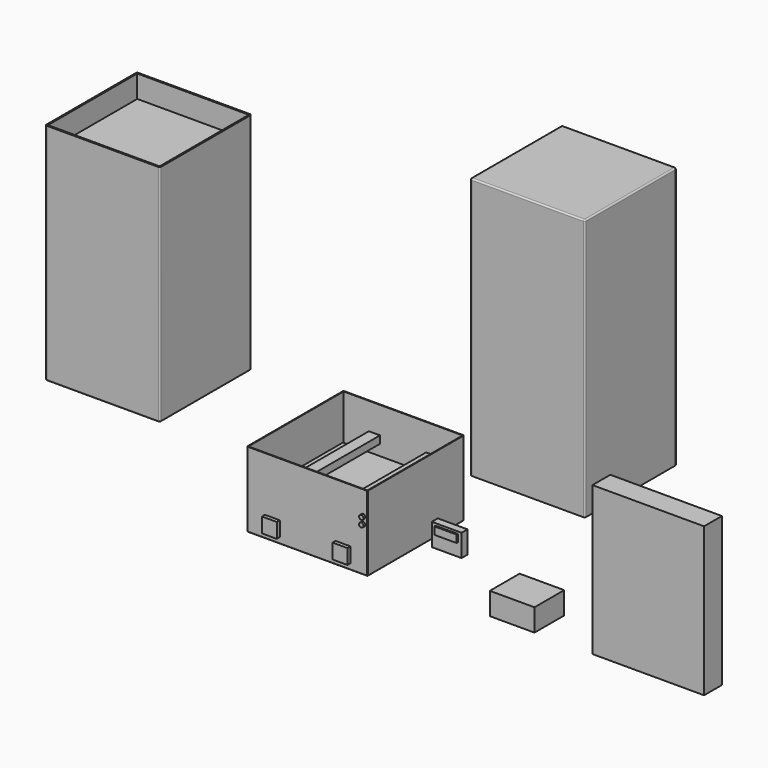
from build123d import *

# Parameters (mm, degrees)
BOX001_W                     = 160
BOX001_H                     = 160
BOX001_DEPTH                 = 100
THICKNESS001_T               = 1
BOX006_W                     = 40
BOX006_H                     = 30
BOX006_DEPTH                 = 10
BOX007_W                     = 30
BOX007_H                     = 10
BOX007_DEPTH                 = 8
CYLINDER_R                   = 3
CYLINDER_DEPTH               = 6
CYLINDER001_R                = 3
CYLINDER001_DEPTH            = 6
BOX009_W                     = 159
BOX009_H                     = 159
BOX009_DEPTH                 = 6
BOX002_W                     = 20
BOX002_H                     = 20
BOX002_DEPTH                 = 5
BOX010_W                     = 20
BOX010_H                     = 20
BOX010_DEPTH                 = 5
BOX011_W                     = 20
BOX011_H                     = 20
BOX011_DEPTH                 = 5
BOX012_W                     = 20
BOX012_H                     = 20
BOX012_DEPTH                 = 5
BOX013_W                     = 20
BOX013_H                     = 20
BOX013_DEPTH                 = 5
BOX014_W                     = 20
BOX014_H                     = 20
BOX014_DEPTH                 = 5
FUSION003_PLACEMENT_ANGLE    = 180
BOX015_W                     = 20
BOX015_H                     = 20
BOX015_DEPTH                 = 5
BOX016_W                     = 20
BOX016_H                     = 20
BOX016_DEPTH                 = 5
FUSION004_PLACEMENT_ANGLE    = 180
BOX017_W                     = 15
BOX017_H                     = 160
BOX017_DEPTH                 = 10
BOX018_W                     = 15
BOX018_H                     = 160
BOX018_DEPTH                 = 10
BOX019_W                     = 60
BOX019_H                     = 50
BOX019_DEPTH                 = 30
BOX020_W                     = 150
BOX020_H                     = 30
BOX020_DEPTH                 = 200
BOX021_W                     = 150
BOX021_H                     = 150
BOX021_DEPTH                 = 350
THICKNESS002_T               = 2
THICKNESS002_PLACEMENT_ANGLE = 180
BOX008_W                     = 150
BOX008_H                     = 150
BOX008_DEPTH                 = 10
BOX_W                        = 150
BOX_H                        = 150
BOX_DEPTH                    = 300
THICKNESS_T                  = 2


with BuildPart() as heat_try:
    # Box001 → Box001 (new body)
    with BuildSketch(Plane(origin=(187, -7, 0), x_dir=(1, 0, 0), z_dir=(0, 0, 1))):
        with Locations((80, 80)):
            Rectangle(BOX001_W, BOX001_H)
    extrude(amount=BOX001_DEPTH)

    # Thickness001
    thickness001_openings = [heat_try.faces().sort_by_distance(p)[0] for p in [
        (267, 73, 100),
    ]]
    offset(amount=THICKNESS001_T, openings=thickness001_openings)


with BuildPart() as obj1:
    # Box006 → Box006 (new body)
    with BuildSketch(Plane(origin=(244, 0, 31), x_dir=(1, 0, 0), z_dir=(0, -1, 0))):
        with Locations((20, 15)):
            Rectangle(BOX006_W, BOX006_H)
    extrude(amount=BOX006_DEPTH)


with BuildPart() as charge_controller:
    # Box007 → Box007 (new body)
    with BuildSketch(Plane(origin=(249, -4, 48), x_dir=(1, 0, 0), z_dir=(0, -1, 0))):
        with Locations((15, 5)):
            Rectangle(BOX007_W, BOX007_H)
    extrude(amount=BOX007_DEPTH)

    # Fusion: union obj1
    add(obj1.part)


with BuildPart() as charge_controller_1:
    # Fusion placement: moved
    add(charge_controller.part.moved(Location((192, 0, 32))))


with BuildPart() as cylinder:
    # Cylinder → Cylinder (new body)
    with BuildSketch(Plane(origin=(342, -5, 68), x_dir=(1, 0, 0), z_dir=(0, -1, 0))):
        Circle(CYLINDER_R)
    extrude(amount=CYLINDER_DEPTH)


with BuildPart() as cylinder001:
    # Cylinder001 → Cylinder001 (new body)
    with BuildSketch(Plane(origin=(342, -5, 59), x_dir=(1, 0, 0), z_dir=(0, -1, 0))):
        Circle(CYLINDER001_R)
    extrude(amount=CYLINDER001_DEPTH)


with BuildPart() as water_or_air_heat_gap:
    # Box009 → Box009 (new body)
    with BuildSketch(Plane(origin=(187, -7, 34), x_dir=(1, 0, 0), z_dir=(0, 0, 1))):
        with Locations((79.5, 79.5)):
            Rectangle(BOX009_W, BOX009_H)
    extrude(amount=BOX009_DEPTH)


with BuildPart() as obj2:
    # Box002 → Box002 (new body)
    with BuildSketch(Plane(origin=(210, -19, 7), x_dir=(1, 0, 0), z_dir=(0, -1, 0))):
        with Locations((10, 10)):
            Rectangle(BOX002_W, BOX002_H)
    extrude(amount=BOX002_DEPTH)


with BuildPart() as obj3:
    # Box010 → Box010 (new body)
    with BuildSketch(Plane(origin=(210, -14, 7), x_dir=(1, 0, 0), z_dir=(0, -1, 0))):
        with Locations((10, 10)):
            Rectangle(BOX010_W, BOX010_H)
    extrude(amount=BOX010_DEPTH)

    # Fusion001: union obj2
    add(obj2.part)


with BuildPart() as obj3_1:
    # Fusion001 placement: moved
    add(obj3.part.moved(Location((0, 11, 0))))


with BuildPart() as obj4:
    # Box011 → Box011 (new body)
    with BuildSketch(Plane(origin=(210, -19, 7), x_dir=(1, 0, 0), z_dir=(0, -1, 0))):
        with Locations((10, 10)):
            Rectangle(BOX011_W, BOX011_H)
    extrude(amount=BOX011_DEPTH)


with BuildPart() as obj5:
    # Box012 → Box012 (new body)
    with BuildSketch(Plane(origin=(210, -14, 7), x_dir=(1, 0, 0), z_dir=(0, -1, 0))):
        with Locations((10, 10)):
            Rectangle(BOX012_W, BOX012_H)
    extrude(amount=BOX012_DEPTH)

    # Fusion002: union obj4
    add(obj4.part)


with BuildPart() as obj5_1:
    # Fusion002 placement: moved
    add(obj5.part.moved(Location((95, 11, 0))))


with BuildPart() as obj6:
    # Box013 → Box013 (new body)
    with BuildSketch(Plane(origin=(210, -19, 7), x_dir=(1, 0, 0), z_dir=(0, -1, 0))):
        with Locations((10, 10)):
            Rectangle(BOX013_W, BOX013_H)
    extrude(amount=BOX013_DEPTH)


with BuildPart() as obj7:
    # Box014 → Box014 (new body)
    with BuildSketch(Plane(origin=(210, -14, 7), x_dir=(1, 0, 0), z_dir=(0, -1, 0))):
        with Locations((10, 10)):
            Rectangle(BOX014_W, BOX014_H)
    extrude(amount=BOX014_DEPTH)

    # Fusion003: union obj6
    add(obj6.part)


with BuildPart() as obj7_1:
    # Fusion003 placement: moved
    add(obj7.part.moved(Location((441, 134, 0))).rotate(Axis((441, 134, 0), (0, 0, 1)), FUSION003_PLACEMENT_ANGLE))


with BuildPart() as obj8:
    # Box015 → Box015 (new body)
    with BuildSketch(Plane(origin=(210, -19, 7), x_dir=(1, 0, 0), z_dir=(0, -1, 0))):
        with Locations((10, 10)):
            Rectangle(BOX015_W, BOX015_H)
    extrude(amount=BOX015_DEPTH)


with BuildPart() as obj9:
    # Box016 → Box016 (new body)
    with BuildSketch(Plane(origin=(210, -14, 7), x_dir=(1, 0, 0), z_dir=(0, -1, 0))):
        with Locations((10, 10)):
            Rectangle(BOX016_W, BOX016_H)
    extrude(amount=BOX016_DEPTH)

    # Fusion004: union obj8
    add(obj8.part)


with BuildPart() as obj9_1:
    # Fusion004 placement: moved
    add(obj9.part.moved(Location((535, 134, 0))).rotate(Axis((535, 134, 0), (0, 0, 1)), FUSION004_PLACEMENT_ANGLE))


with BuildPart() as shelf:
    # Box017 → Box017 (new body)
    with BuildSketch(Plane(origin=(221, -7, 54), x_dir=(1, 0, 0), z_dir=(0, 0, 1))):
        with Locations((7.5, 80)):
            Rectangle(BOX017_W, BOX017_H)
    extrude(amount=BOX017_DEPTH)


with BuildPart() as shelf001:
    # Box018 → Box018 (new body)
    with BuildSketch(Plane(origin=(298, -7, 54), x_dir=(1, 0, 0), z_dir=(0, 0, 1))):
        with Locations((7.5, 80)):
            Rectangle(BOX018_W, BOX018_H)
    extrude(amount=BOX018_DEPTH)


with BuildPart() as power_cell:
    # Box019 → Box019 (new body)
    with BuildSketch(Plane(origin=(506, 0, 0), x_dir=(1, 0, 0), z_dir=(0, 0, 1))):
        with Locations((30, 25)):
            Rectangle(BOX019_W, BOX019_H)
    extrude(amount=BOX019_DEPTH)


with BuildPart() as solar_panel:
    # Box020 → Box020 (new body)
    with BuildSketch(Plane(origin=(644, 0, 0), x_dir=(1, 0, 0), z_dir=(0, 0, 1))):
        with Locations((75, 15)):
            Rectangle(BOX020_W, BOX020_H)
    extrude(amount=BOX020_DEPTH)


with BuildPart() as cover:
    # Box021 → Box021 (new body)
    with BuildSketch(Plane.XY):
        with Locations((75, 75)):
            Rectangle(BOX021_W, BOX021_H)
    extrude(amount=BOX021_DEPTH)

    # Thickness002
    thickness002_openings = [cover.faces().sort_by_distance(p)[0] for p in [
        (75, 75, 350),
    ]]
    offset(amount=THICKNESS002_T, openings=thickness002_openings)


with BuildPart() as cover_1:
    # Thickness002 placement: moved
    add(cover.part.moved(Location((543, 113, 434))).rotate(Axis((543, 113, 434), (0, 1, 0)), THICKNESS002_PLACEMENT_ANGLE))


with BuildPart() as dirt:
    # Box008 → Box008 (new body)
    with BuildSketch(Plane.XY.offset(260)):
        with Locations((75, 75)):
            Rectangle(BOX008_W, BOX008_H)
    extrude(amount=BOX008_DEPTH)


with BuildPart() as grow_bag001:
    # Box → Box (new body)
    with BuildSketch(Plane.XY):
        with Locations((75, 75)):
            Rectangle(BOX_W, BOX_H)
    extrude(amount=BOX_DEPTH)

    # Thickness
    thickness_openings = [grow_bag001.faces().sort_by_distance(p)[0] for p in [
        (75, 75, 300),
    ]]
    offset(amount=THICKNESS_T, openings=thickness_openings)

    # Fusion005: union Dirt
    add(dirt.part)


with BuildPart() as grow_bag001_1:
    # Fusion005 placement: moved
    add(grow_bag001.part.moved(Location((-88, 0, 88))))


solid = Compound([heat_try.part, charge_controller_1.part, cylinder.part, cylinder001.part, water_or_air_heat_gap.part, obj3_1.part, obj5_1.part, obj7_1.part, obj9_1.part, shelf.part, shelf001.part, power_cell.part, solar_panel.part, cover_1.part, grow_bag001_1.part])
